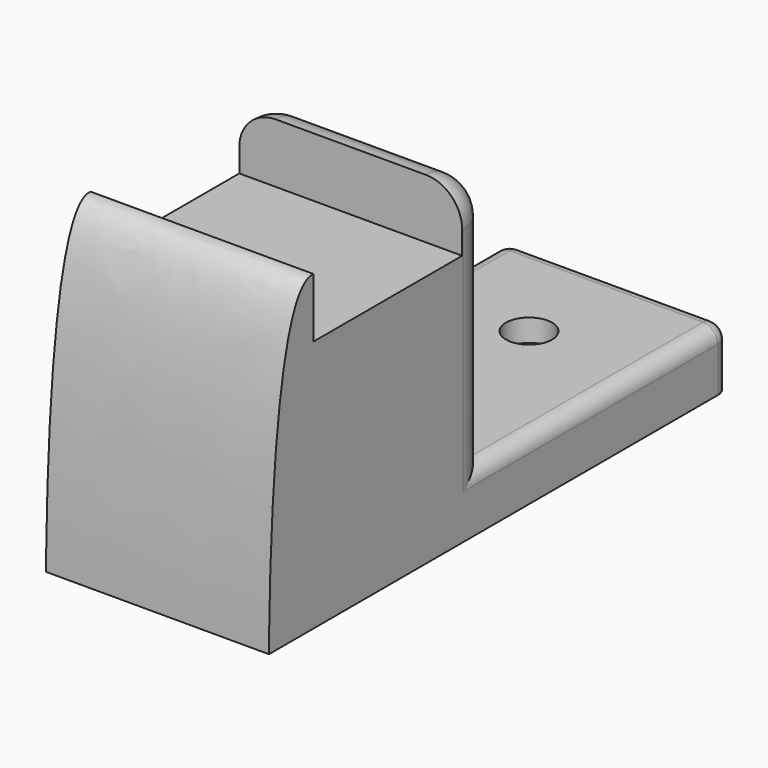
from build123d import *

# Parameters (mm, degrees)
PAD002_DEPTH    = 30
SKETCH009_R     = 3.1
POCKET004_DEPTH = 8.001
POCKET005_DEPTH = 5
FILLET005_R     = 4.9
FILLET006_R     = 4.9
FILLET007_R     = 2


with BuildPart() as part:
    # Sketch008 → Pad002 (new body)
    with BuildSketch(Plane.YZ):
        with BuildLine():
            add(Edge.make_bspline(
                [(-12.5, 42), (-20, 43), (-20, 0), (-20, 0)],
                knots=[0, 0, 0, 0, 1, 1, 1, 1], degree=3))
            Line((-20, 0), (57.5, 0))
            Line((57.5, 0), (57.5, 8))
            Line((57.5, 8), (17.5, 8))
            Line((17.5, 8), (17.5, 42))
            Line((17.5, 42), (12.5, 42))
            Line((12.5, 42), (12.5, 34))
            Line((12.5, 34), (-12.5, 34))
            Line((-12.5, 34), (-12.5, 42))
        make_face()
    extrude(amount=PAD002_DEPTH)

    # Sketch009 (on Face4 of Pad002) → Pocket004 (cut, through all)
    with BuildSketch(Plane(origin=(0, 0, 8), x_dir=(0, -1, 0), z_dir=(0, 0, 1))):
        with Locations((-42.5, 15)):
            Circle(SKETCH009_R)
    extrude(amount=-POCKET004_DEPTH, mode=Mode.SUBTRACT)

    # Sketch010 (on Face3 of Pocket004) → Pocket005 (cut)
    with BuildSketch(Plane.YX):
        Polygon((48.7, 14.99998), (45.600017, 20.369348), (39.400017, 20.369367), (36.3, 15.00002), (39.399983, 9.630652), (45.599983, 9.630633), align=None)
    extrude(amount=-POCKET005_DEPTH, mode=Mode.SUBTRACT)

    # Fillet005
    fillet005_edges = [part.edges().sort_by_distance(p)[0] for p in [
        (30, 17.5, 25),
        (0, 17.5, 25),
    ]]
    fillet(fillet005_edges, radius=FILLET005_R)

    # Fillet006
    fillet006_edges = [part.edges().sort_by_distance(p)[0] for p in [
        (15, 17.5, 42),
    ]]
    fillet(fillet006_edges, radius=FILLET006_R)

    # Fillet007
    fillet007_edges = [part.edges().sort_by_distance(p)[0] for p in [
        (15, 57.5, 8),
        (0, 37.5, 8),
        (30, 37.5, 8),
        (30, 57.5, 4),
        (0, 57.5, 4),
    ]]
    fillet(fillet007_edges, radius=FILLET007_R)


with BuildPart() as part_1:
    # Body005 placement: moved
    add(part.part.moved(Location((-660.5, 0, 0))))


solid = part_1.part
